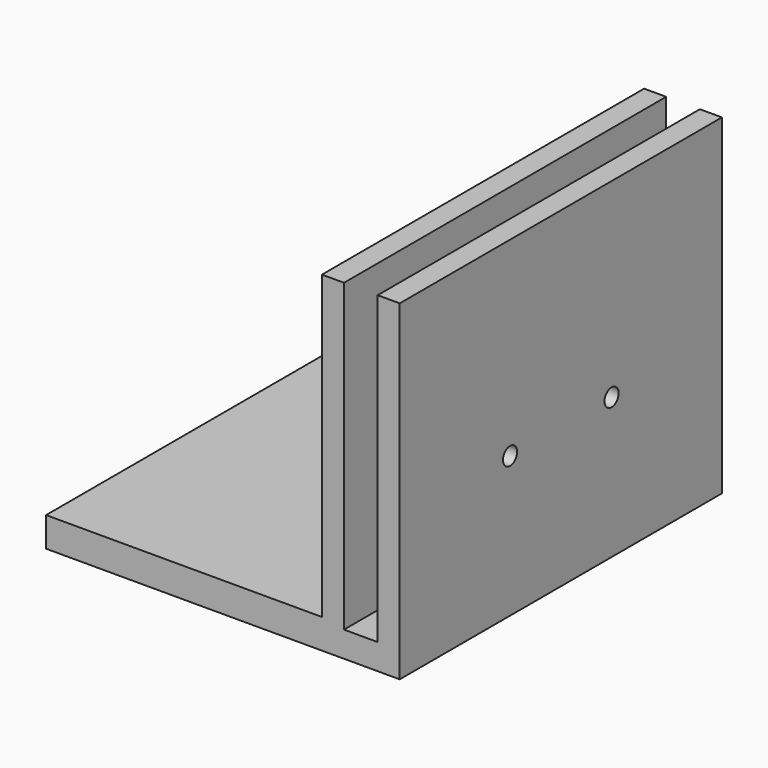
from build123d import *

# Parameters (mm, degrees)
F0_R     = 1.6
F1_DEPTH = 4
F2_W     = 73
F2_H     = 4.652086
F3_DEPTH = 6.1
F4_W     = 73
F4_H     = 60
F4_W_2   = 10
F4_H_2   = 10
F4_R     = 1.6
F5_DEPTH = 4
F6_W     = 73
F6_H     = 5.369931
F7_DEPTH = 50


with BuildPart() as f1:
    # F0 (on Right) → F1 (new body)
    with BuildSketch(Plane.YZ):
        Polygon((-20.5, 0), (0, 0), (32, 0), (52.5, 0), (52.5, 60), (32, 60), (0, 60), (-20.5, 60), align=None)
        with Locations((4.5, 25.5)):
            Circle(F0_R, mode=Mode.SUBTRACT)
        with Locations((27.5, 25.5)):
            Circle(F0_R, mode=Mode.SUBTRACT)
    extrude(amount=F1_DEPTH)

    # F2 (on face) → F3 (join)
    with BuildSketch(Plane(origin=(0, 0, 0), x_dir=(0, -1, 0), z_dir=(-1, 0, 0))):
        with Locations((-16, 2.326043)):
            Rectangle(F2_W, F2_H)
    extrude(amount=F3_DEPTH)

    # F4 (on face) → F5 (join)
    with BuildSketch(Plane(origin=(-6.1, 0, 0), x_dir=(0, -1, 0), z_dir=(-1, 0, 0))):
        with Locations((-16, 30)):
            Rectangle(F4_W, F4_H)
        with Locations((-45.124016, 9.652086)):
            Rectangle(F4_W_2, F4_H_2, mode=Mode.SUBTRACT)
        with Locations((-27.5, 25.5)):
            Circle(F4_R, mode=Mode.SUBTRACT)
        with Locations((-4.5, 25.5)):
            Circle(F4_R, mode=Mode.SUBTRACT)
    extrude(amount=F5_DEPTH)

    # F6 (on face) → F7 (join)
    with BuildSketch(Plane(origin=(-10.1, 0, 0), x_dir=(0, -1, 0), z_dir=(-1, 0, 0))):
        with Locations((-16, 2.684965)):
            Rectangle(F6_W, F6_H)
    extrude(amount=F7_DEPTH)


solid = f1.part
